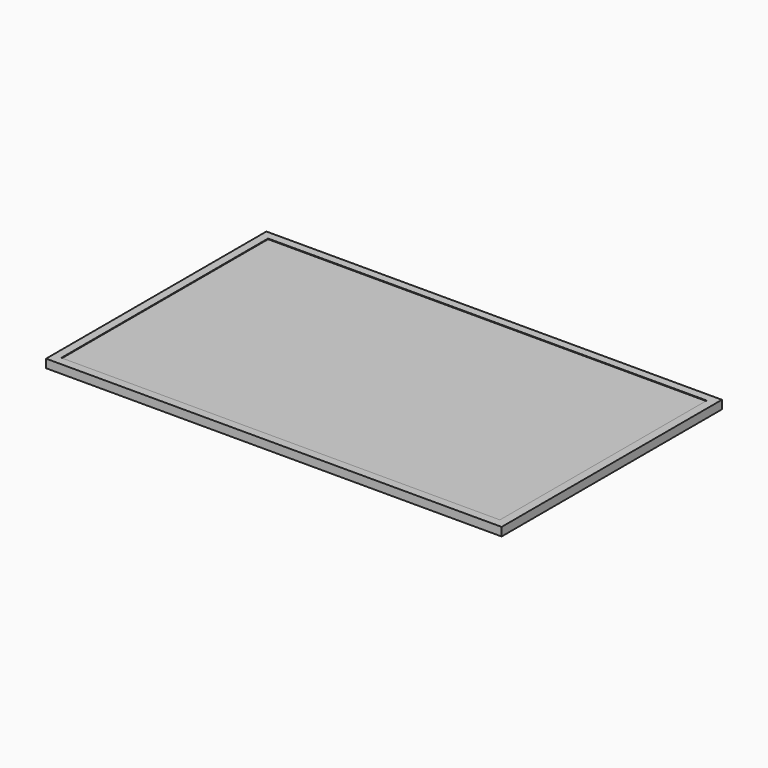
from build123d import *

# Parameters (mm, degrees)
F0_W     = 1450
F0_H     = 875
F1_DEPTH = 25


with BuildPart() as f1:
    # F0 (on Top) → F1 (new body)
    with BuildSketch(Plane.XY):
        Rectangle(F0_W, F0_H)
    extrude(amount=F1_DEPTH)


with BuildPart() as f3:
    # F3: sweep along a path in F3_path
    with BuildLine(Plane(origin=(725, 437.5, 25), x_dir=(0, -1, 0), z_dir=(0, 0, -1))) as f3_path:
        Line((0, 0), (0, 1450))
        Line((0, 1450), (875, 1450))
        Line((875, 1450), (875, 0))
        Line((875, 0), (0, 0))
    # F2 (on face) → F3 (sweep)
    with BuildSketch(Plane.YZ.offset(725)):
        Polygon((412.5, 27), (412.5, 25), (437.5, 25), (437.5, 0), (439.5, 0), (439.5, 27), align=None)
    sweep(path=f3_path.line, transition=Transition.RIGHT)


solid = Compound([f1.part, f3.part])
